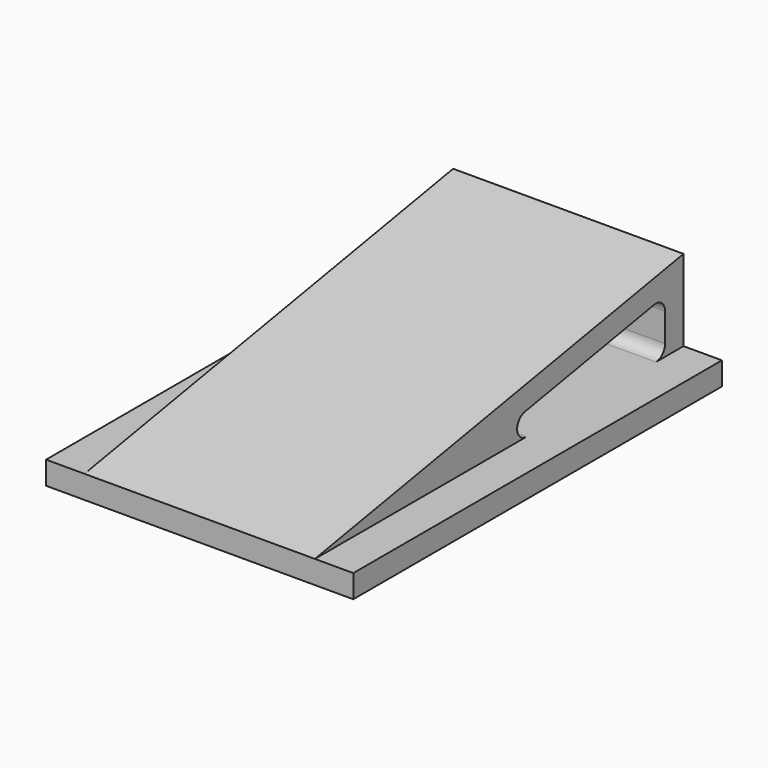
from build123d import *

# Parameters (mm, degrees)
F2_W          = 40
F2_H          = 60
F3_DEPTH      = 3
F5_DEPTH      = 15
F5_DEPTH_BACK = 15
F7_DEPTH      = 30
F8_R          = 1.5


with BuildPart() as f3:
    # F2 (on Top) → F3 (new body)
    with BuildSketch(Plane.XY):
        with Locations((0, 30)):
            Rectangle(F2_W, F2_H)
    extrude(amount=F3_DEPTH)

    # F4 (on Right) → F5 (join, two sides)
    with BuildSketch(Plane.YZ) as f5_sk:
        Polygon((60, 3), (60, 13.5796188425), (0, 3), align=None)
    extrude(amount=F5_DEPTH)
    extrude(f5_sk.sketch, amount=-F5_DEPTH_BACK)

    # F6 (on face) → F7 (cut, through all)
    with BuildSketch(Plane.YZ.offset(15)):
        Polygon((17.2763114494, 3), (57, 3), (57, 10.0043580647), align=None)
    extrude(amount=-F7_DEPTH, mode=Mode.SUBTRACT)

    # F8
    f8_edges = [f3.edges().sort_by_distance(p)[0] for p in [
        (0, 57, 3),
        (0, 57, 10.004358),
        (0, 17.276311, 3),
    ]]
    fillet(f8_edges, radius=F8_R)


solid = f3.part
